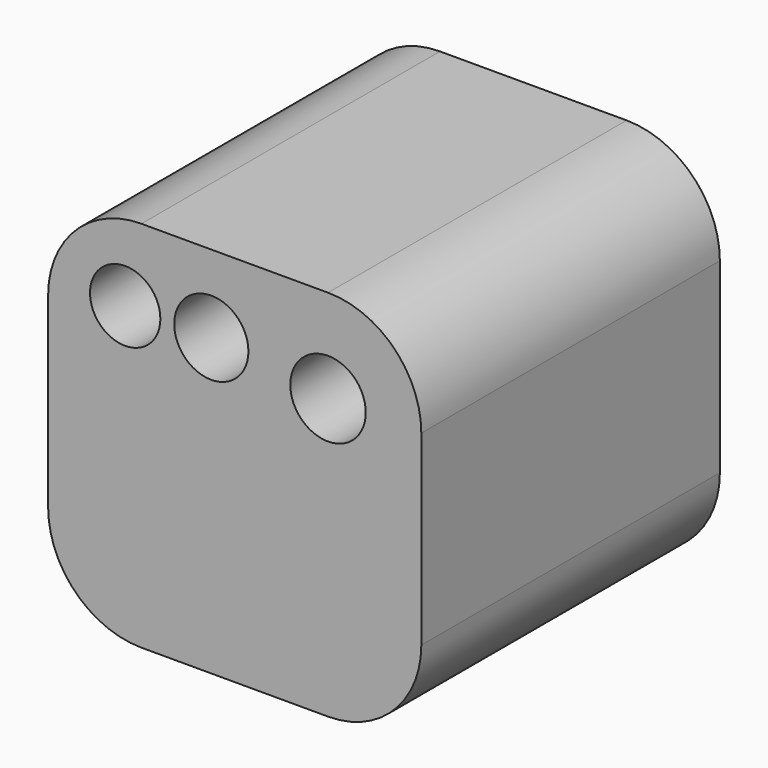
from build123d import *

# Parameters (mm, degrees)
F1_DEPTH = 25.4
F2_R     = 2.394714
F2_R_2   = 2.525122
F2_R_3   = 2.568066
F3_DEPTH = 25.4


with BuildPart() as f1:
    # F0 (on Front) → F1 (new body)
    with BuildSketch(Plane.XZ):
        with BuildLine():
            Line((7.943742, 14.15978), (-4.756258, 14.15978))
            ThreePointArc((-4.756258, 14.15978), (-9.246386, 12.299908), (-11.106258, 7.80978))
            Line((-11.106258, 7.80978), (-11.106258, -4.89022))
            ThreePointArc((-11.106258, -4.89022), (-9.246386, -9.380348), (-4.756258, -11.24022))
            Line((-4.756258, -11.24022), (7.943742, -11.24022))
            ThreePointArc((7.943742, -11.24022), (12.43387, -9.380348), (14.293742, -4.89022))
            Line((14.293742, -4.89022), (14.293742, 7.80978))
            ThreePointArc((14.293742, 7.80978), (12.43387, 12.299908), (7.943742, 14.15978))
        make_face()
    extrude(amount=F1_DEPTH)

    # F2 (on face) → F3 (cut)
    with BuildSketch(Plane.XZ.offset(25.4)):
        with Locations((-5.862328, 8.878076)):
            Circle(F2_R)
        with Locations((0, 8.878076)):
            Circle(F2_R_2)
        with Locations((7.943742, 7.80978)):
            Circle(F2_R_3)
    extrude(amount=-F3_DEPTH, mode=Mode.SUBTRACT)


solid = f1.part
